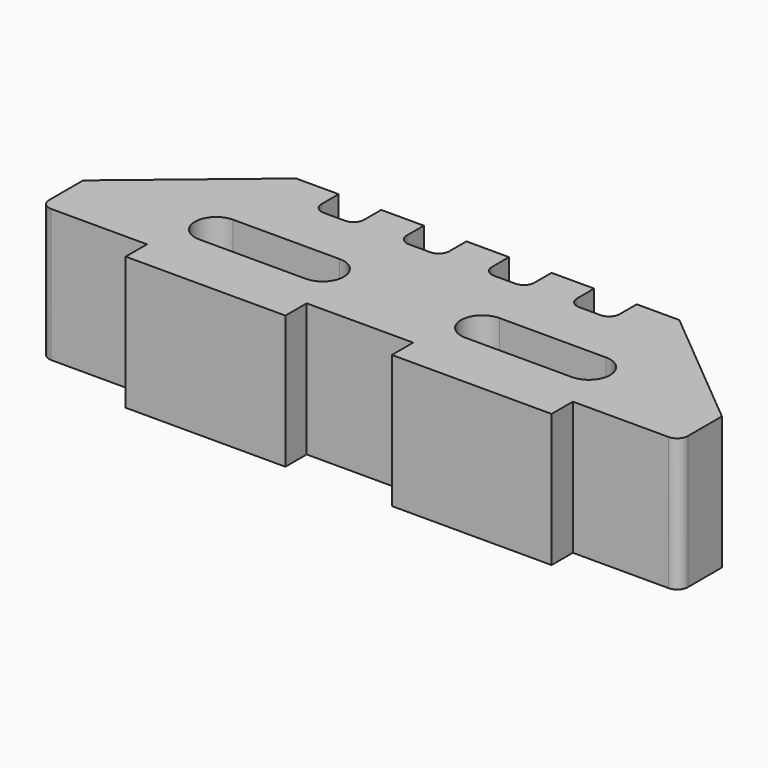
from build123d import *

# Parameters (mm, degrees)
F1_DEPTH = 25


with BuildPart() as f1:
    # F0 (on Top) → F1 (new body)
    with BuildSketch(Plane.XY):
        with BuildLine():
            ThreePointArc((-36.814499, -8), (-36.228712, -9.414214), (-34.814499, -10))
            Line((-34.814499, -10), (-16.814499, -10))
            Line((-16.814499, -10), (-16.814499, -15))
            Line((-16.814499, -15), (13.185501, -15))
            Line((13.185501, -15), (13.185501, -10))
            Line((13.185501, -10), (33.185501, -10))
            Line((33.185501, -10), (33.185501, -15))
            Line((33.185501, -15), (63.185501, -15))
            Line((63.185501, -15), (63.185501, -10))
            Line((63.185501, -10), (81.185501, -10))
            ThreePointArc((81.185501, -10), (82.599715, -9.414214), (83.185501, -8))
            Line((83.185501, -8), (83.185501, 0))
            Line((83.185501, 0), (59.185501, 20))
            Line((59.185501, 20), (51.185501, 20))
            Line((51.185501, 20), (51.185501, 16))
            ThreePointArc((51.185501, 16), (50.599715, 14.585786), (49.185501, 14))
            Line((49.185501, 14), (45.185501, 14))
            ThreePointArc((45.185501, 14), (43.771288, 14.585786), (43.185501, 16))
            Line((43.185501, 16), (43.185501, 20))
            Line((43.185501, 20), (35.185501, 20))
            Line((35.185501, 20), (35.185501, 16))
            ThreePointArc((35.185501, 16), (34.599715, 14.585786), (33.185501, 14))
            Line((33.185501, 14), (29.185501, 14))
            ThreePointArc((29.185501, 14), (27.771288, 14.585786), (27.185501, 16))
            Line((27.185501, 16), (27.185501, 20))
            Line((27.185501, 20), (19.185501, 20))
            Line((19.185501, 20), (19.185501, 16))
            ThreePointArc((19.185501, 16), (18.599715, 14.585786), (17.185501, 14))
            Line((17.185501, 14), (13.185501, 14))
            ThreePointArc((13.185501, 14), (11.771288, 14.585786), (11.185501, 16))
            Line((11.185501, 16), (11.185501, 20))
            Line((11.185501, 20), (3.185501, 20))
            Line((3.185501, 20), (3.185501, 16))
            ThreePointArc((3.185501, 16), (2.599715, 14.585786), (1.185501, 14))
            Line((1.185501, 14), (-2.814499, 14))
            ThreePointArc((-2.814499, 14), (-4.228712, 14.585786), (-4.814499, 16))
            Line((-4.814499, 16), (-4.814499, 20))
            Line((-4.814499, 20), (-12.814499, 20))
            Line((-12.814499, 20), (-36.814499, 0))
            Line((-36.814499, 0), (-36.814499, -8))
        make_face()
        with BuildLine():
            ThreePointArc((8.185501, 4), (12.185501, 0), (8.185501, -4))
            Line((8.185501, -4), (-11.814499, -4))
            ThreePointArc((-11.814499, -4), (-15.814499, 0), (-11.814499, 4))
            Line((-11.814499, 4), (8.185501, 4))
        make_face(mode=Mode.SUBTRACT)
        with BuildLine():
            ThreePointArc((58.185501, 4), (62.185501, 0), (58.185501, -4))
            Line((58.185501, -4), (38.185501, -4))
            ThreePointArc((38.185501, -4), (34.185501, 0), (38.185501, 4))
            Line((38.185501, 4), (58.185501, 4))
        make_face(mode=Mode.SUBTRACT)
        with BuildLine():
            ThreePointArc((-36.814499, -8), (-36.228712, -9.414214), (-34.814499, -10))
            Line((-34.814499, -10), (-16.814499, -10))
            Line((-16.814499, -10), (-16.814499, -15))
            Line((-16.814499, -15), (13.185501, -15))
            Line((13.185501, -15), (13.185501, -10))
            Line((13.185501, -10), (33.185501, -10))
            Line((33.185501, -10), (33.185501, -15))
            Line((33.185501, -15), (63.185501, -15))
            Line((63.185501, -15), (63.185501, -10))
            Line((63.185501, -10), (81.185501, -10))
            ThreePointArc((81.185501, -10), (82.599715, -9.414214), (83.185501, -8))
            Line((83.185501, -8), (83.185501, 0))
            Line((83.185501, 0), (59.185501, 20))
            Line((59.185501, 20), (51.185501, 20))
            Line((51.185501, 20), (51.185501, 16))
            ThreePointArc((51.185501, 16), (50.599715, 14.585786), (49.185501, 14))
            Line((49.185501, 14), (45.185501, 14))
            ThreePointArc((45.185501, 14), (43.771288, 14.585786), (43.185501, 16))
            Line((43.185501, 16), (43.185501, 20))
            Line((43.185501, 20), (35.185501, 20))
            Line((35.185501, 20), (35.185501, 16))
            ThreePointArc((35.185501, 16), (34.599715, 14.585786), (33.185501, 14))
            Line((33.185501, 14), (29.185501, 14))
            ThreePointArc((29.185501, 14), (27.771288, 14.585786), (27.185501, 16))
            Line((27.185501, 16), (27.185501, 20))
            Line((27.185501, 20), (19.185501, 20))
            Line((19.185501, 20), (19.185501, 16))
            ThreePointArc((19.185501, 16), (18.599715, 14.585786), (17.185501, 14))
            Line((17.185501, 14), (13.185501, 14))
            ThreePointArc((13.185501, 14), (11.771288, 14.585786), (11.185501, 16))
            Line((11.185501, 16), (11.185501, 20))
            Line((11.185501, 20), (3.185501, 20))
            Line((3.185501, 20), (3.185501, 16))
            ThreePointArc((3.185501, 16), (2.599715, 14.585786), (1.185501, 14))
            Line((1.185501, 14), (-2.814499, 14))
            ThreePointArc((-2.814499, 14), (-4.228712, 14.585786), (-4.814499, 16))
            Line((-4.814499, 16), (-4.814499, 20))
            Line((-4.814499, 20), (-12.814499, 20))
            Line((-12.814499, 20), (-36.814499, 0))
            Line((-36.814499, 0), (-36.814499, -8))
        make_face()
        with BuildLine():
            ThreePointArc((8.185501, 4), (12.185501, 0), (8.185501, -4))
            Line((8.185501, -4), (-11.814499, -4))
            ThreePointArc((-11.814499, -4), (-15.814499, 0), (-11.814499, 4))
            Line((-11.814499, 4), (8.185501, 4))
        make_face(mode=Mode.SUBTRACT)
        with BuildLine():
            ThreePointArc((58.185501, 4), (62.185501, 0), (58.185501, -4))
            Line((58.185501, -4), (38.185501, -4))
            ThreePointArc((38.185501, -4), (34.185501, 0), (38.185501, 4))
            Line((38.185501, 4), (58.185501, 4))
        make_face(mode=Mode.SUBTRACT)
    extrude(amount=F1_DEPTH)


solid = f1.part
